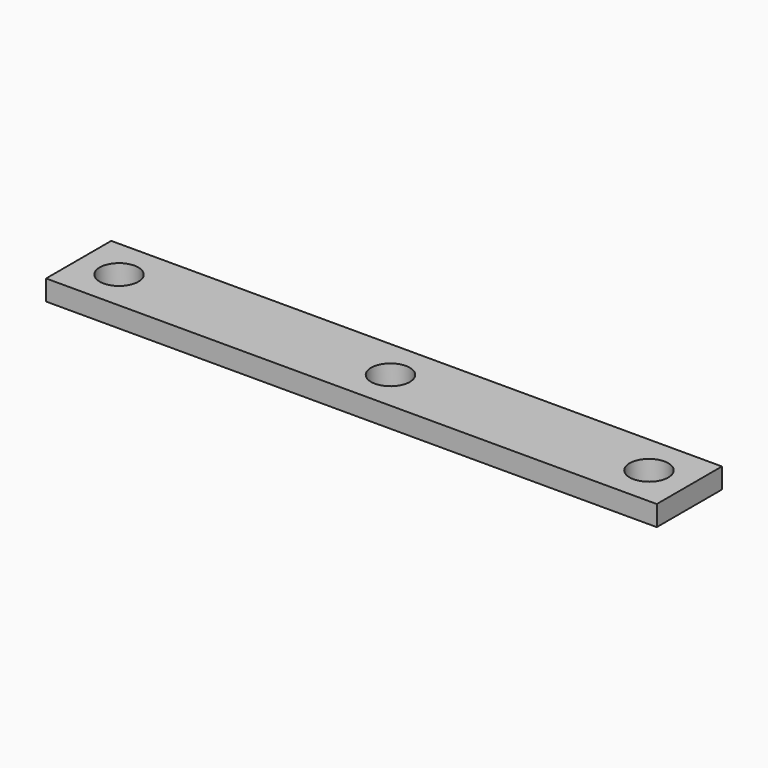
from build123d import *

# Parameters (mm, degrees)
F0_R     = 9.5
F1_DEPTH = 10


with BuildPart() as f1:
    # F0 (on Top) → F1 (new body)
    with BuildSketch(Plane.XY):
        Polygon((-153.175, -20), (0, -20), (146.825, -20), (146.825, 20), (0, 20), (-153.175, 20), align=None)
        with Locations((-133.35, 0)):
            Circle(F0_R, mode=Mode.SUBTRACT)
        Circle(F0_R, mode=Mode.SUBTRACT)
        with Locations((127, 0)):
            Circle(F0_R, mode=Mode.SUBTRACT)
    extrude(amount=-F1_DEPTH)


solid = f1.part
